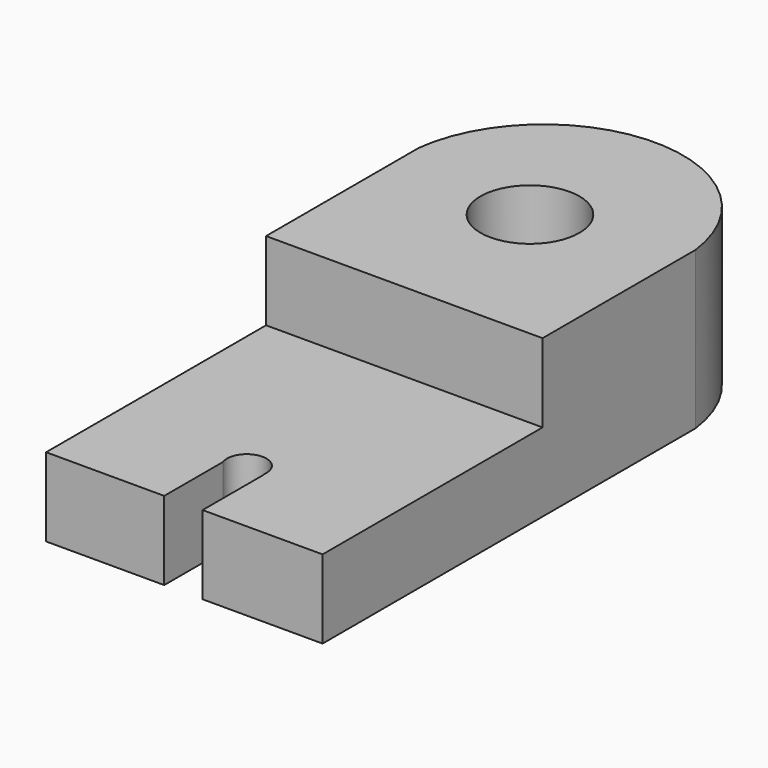
from build123d import *

# Parameters (mm, degrees)
F1_DEPTH  = 44.704
F4_D      = 6.35
F4_DEPTH  = 50.8
F6_DEPTH  = 25.4
F8_DEPTH  = 25.4
F10_DEPTH = 25.4


with BuildPart() as f1:
    # F0 (on Right) → F1 (new body)
    with BuildSketch(Plane.YZ):
        Polygon((-33.479363, 12.7), (-33.479363, 0), (61.770637, 0), (61.770637, 25.4), (10.970637, 25.4), (10.970637, 12.7), align=None)
    extrude(amount=F1_DEPTH)

    # F4
    with Locations(Plane.XY.offset(12.7)):
        with Locations((22.09222, -20.542669)):
            Hole(F4_D / 2, depth=F4_DEPTH)

    # F5 (on face) → F6 (cut)
    with BuildSketch(Plane.XY.offset(12.7)):
        Polygon((25.304057, -21.059527), (19.101784, -21.059527), (19.101784, -33.980933), (25.304057, -33.759527), align=None)
    extrude(amount=-F6_DEPTH, mode=Mode.SUBTRACT)

    # F7 (on face) → F8 (cut)
    with BuildSketch(Plane.XY.offset(25.4)):
        with BuildLine():
            ThreePointArc((0, 41.87514), (22.352, 61.643697), (44.704, 41.87514))
            Line((44.704, 41.87514), (44.704, 61.770637))
            Line((44.704, 61.770637), (0, 61.770637))
            Line((0, 61.770637), (0, 41.87514))
        make_face()
    extrude(amount=-F8_DEPTH, mode=Mode.SUBTRACT)

    # F9 (on face) → F10 (cut)
    with BuildSketch(Plane.XY.offset(25.4)):
        with BuildLine():
            ThreePointArc((30.353, 36.370637), (16.694439, 42.028199), (22.352, 28.369637))
            ThreePointArc((22.352, 28.369637), (28.009561, 30.713076), (30.353, 36.370637))
        make_face()
    extrude(amount=-F10_DEPTH, mode=Mode.SUBTRACT)


solid = f1.part
